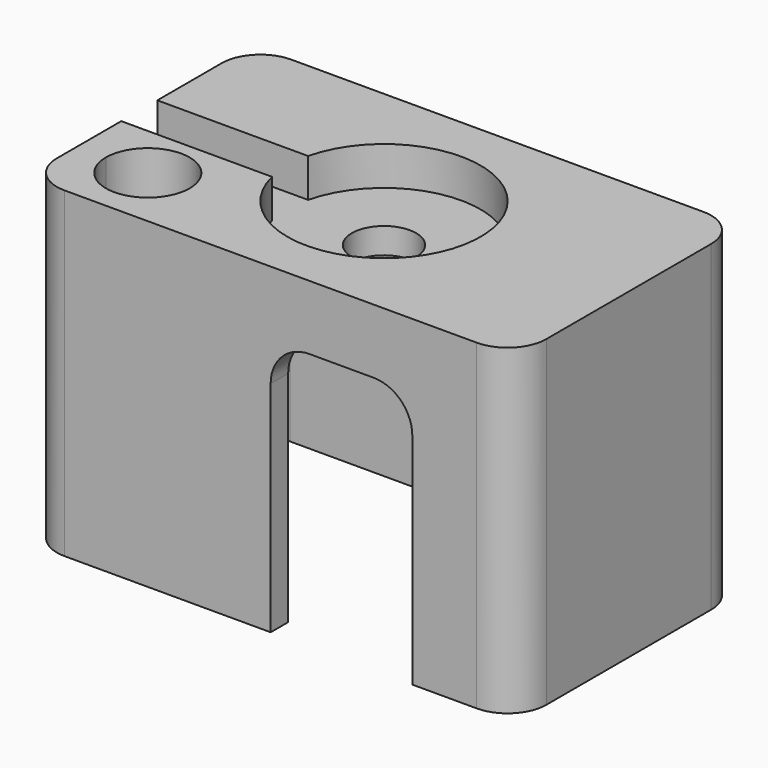
from build123d import *

# Parameters (mm, degrees)
F0_W      = 38
F0_H      = 22
F1_DEPTH  = 20
F2_W      = 38
F2_H      = 22
F3_DEPTH  = 5
F4_R      = 2.5
F5_DEPTH  = 5
F6_R      = 7.5
F6_R_2    = 2.5
F7_DEPTH  = 3
F8_W      = 11
F8_H      = 20
F9_DEPTH  = 1.7
F11_DEPTH = 3
F12_R     = 3
F13_R     = 3


with BuildPart() as f1:
    # F0 (on Top) → F1 (new body)
    with BuildSketch(Plane.XY):
        Rectangle(F0_W, F0_H)
        with BuildLine():
            ThreePointArc((-16.75, 7.3), (-16.1642135624, 8.7142135624), (-14.75, 9.3))
            Line((-14.75, 9.3), (14.75, 9.3))
            ThreePointArc((14.75, 9.3), (16.1642135624, 8.7142135624), (16.75, 7.3))
            Line((16.75, 7.3), (16.75, -7.3))
            ThreePointArc((16.75, -7.3), (16.1642135624, -8.7142135624), (14.75, -9.3))
            Line((14.75, -9.3), (-14.75, -9.3))
            ThreePointArc((-14.75, -9.3), (-16.1642135624, -8.7142135624), (-16.75, -7.3))
            Line((-16.75, -7.3), (-16.75, 7.3))
        make_face(mode=Mode.SUBTRACT)
    extrude(amount=F1_DEPTH)

    # F2 (on face) → F3 (join)
    with BuildSketch(Plane.XY.offset(20)):
        Rectangle(F2_W, F2_H)
    extrude(amount=F3_DEPTH)

    # F4 (on face) → F5 (cut, through all)
    with BuildSketch(Plane(origin=(0, 0, 20), x_dir=(1, 0, 0), z_dir=(0, 0, -1))):
        with BuildLine():
            ThreePointArc((-16.75, 6.05), (-13.5, 2.8), (-10.25, 6.05))
            ThreePointArc((-10.25, 6.05), (-11.2019029611, 8.3480970389), (-13.5, 9.3))
            ThreePointArc((-13.5, 9.3), (-15.7980970389, 8.3480970389), (-16.75, 6.05))
        make_face()
        Circle(F4_R)
    extrude(amount=-F5_DEPTH, mode=Mode.SUBTRACT)

    # F6 (on face) → F7 (cut)
    with BuildSketch(Plane.XY.offset(25)):
        Circle(F6_R)
        Circle(F6_R_2, mode=Mode.SUBTRACT)
    extrude(amount=-F7_DEPTH, mode=Mode.SUBTRACT)

    # F8 (on face) → F9 (cut, through all)
    with BuildSketch(Plane(origin=(0, -9.3, 0), x_dir=(-1, 0, 0), z_dir=(0, 1, 0))):
        with Locations((-5.5, 10)):
            Rectangle(F8_W, F8_H)
    extrude(amount=-F9_DEPTH, mode=Mode.SUBTRACT)

    # F10 (on face) → F11 (cut, through all)
    with BuildSketch(Plane.XY.offset(25)):
        with BuildLine():
            Line((-7.2929760729, 1.75), (-19, 1.75))
            Line((-19, 1.75), (-19, -1.75))
            Line((-19, -1.75), (-7.2929760729, -1.75))
            ThreePointArc((-7.2929760729, -1.75), (-7.5, 0), (-7.2929760729, 1.75))
        make_face()
    extrude(amount=-F11_DEPTH, mode=Mode.SUBTRACT)

    # F12
    f12_edges = [f1.edges().sort_by_distance(p)[0] for p in [
        (-19, -11, 12.5),
        (19, -11, 12.5),
        (19, 11, 12.5),
        (-19, 11, 12.5),
    ]]
    fillet(f12_edges, radius=F12_R)

    # F13
    f13_edges = [f1.edges().sort_by_distance(p)[0] for p in [
        (0, -10.15, 20),
        (11, -10.15, 20),
    ]]
    fillet(f13_edges, radius=F13_R)


solid = f1.part
